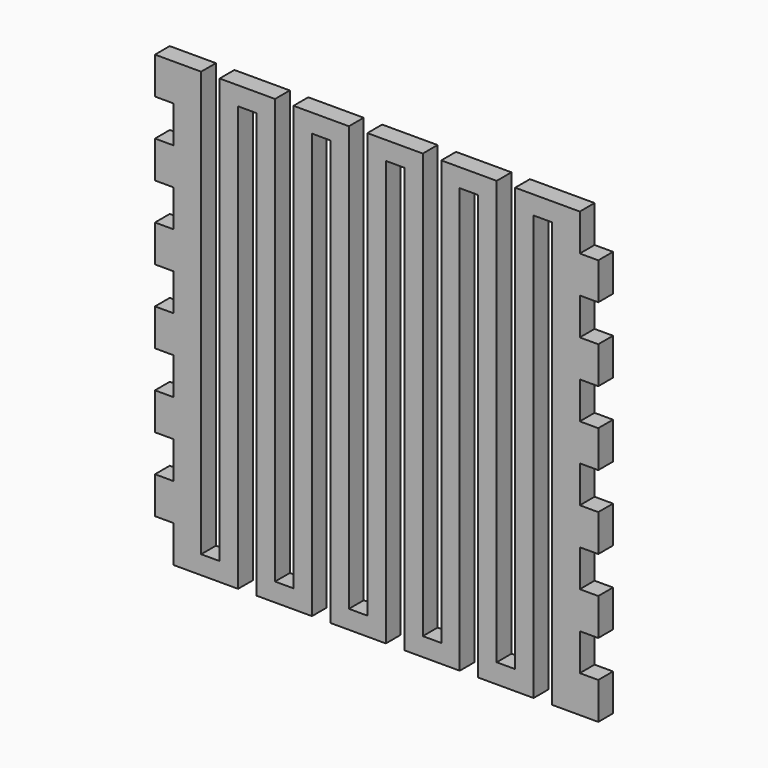
from build123d import *

# Parameters (mm, degrees)
F1_DEPTH = 3.175


with BuildPart() as f1:
    # F0 (on Front) → F1 (new body)
    with BuildSketch(Plane.XZ):
        Polygon((-34.925, 38.1), (-38.1, 38.1), (-38.1, 31.75), (-34.925, 31.75), (-34.925, 25.4), (-38.1, 25.4), (-38.1, 19.05), (-34.925, 19.05), (-34.925, 12.7), (-38.1, 12.7), (-38.1, 6.35), (-34.925, 6.35), (-34.925, 0), (-38.1, 0), (-38.1, -6.35), (-34.925, -6.35), (-34.925, -12.7), (-38.1, -12.7), (-38.1, -19.05), (-34.925, -19.05), (-34.925, -25.4), (-38.1, -25.4), (-38.1, -31.75), (-34.925, -31.75), (-34.925, -38.1), (-23.8125, -38.1), (-23.8125, 34.925), (-20.6375, 34.925), (-20.6375, -38.1), (-11.1125, -38.1), (-11.1125, 34.925), (-7.9375, 34.925), (-7.9375, -38.1), (-3.249693, -38.1), (-0.074693, -38.1), (1.5875, -38.1), (1.5875, 34.925), (4.7625, 34.925), (4.7625, -38.1), (14.2875, -38.1), (14.2875, 34.925), (17.4625, 34.925), (17.4625, -38.1), (26.9875, -38.1), (26.9875, 34.925), (30.1625, 34.925), (30.1625, -38.1), (38.1, -38.1), (38.1, -31.75), (34.925, -31.75), (34.925, -25.4), (38.1, -25.4), (38.1, -19.05), (34.925, -19.05), (34.925, -12.7), (38.1, -12.7), (38.1, -6.35), (34.925, -6.35), (34.925, 0), (38.1, 0), (38.1, 6.35), (34.925, 6.35), (34.925, 12.7), (38.1, 12.7), (38.1, 19.05), (34.925, 19.05), (34.925, 25.4), (38.1, 25.4), (38.1, 31.75), (34.925, 31.75), (34.925, 38.1), (23.8125, 38.1), (23.8125, -34.752939), (20.6375, -34.752939), (20.6375, 38.1), (11.1125, 38.1), (11.1125, -34.925), (7.9375, -34.925), (7.9375, 38.1), (-1.5875, 38.1), (-1.5875, -34.925), (-4.7625, -34.925), (-4.7625, 38.1), (-14.2875, 38.1), (-14.2875, -34.925), (-17.4625, -34.925), (-17.4625, 38.1), (-26.9875, 38.1), (-26.9875, -34.925), (-30.1625, -34.925), (-30.1625, 38.1), align=None)
    extrude(amount=F1_DEPTH)


solid = f1.part
